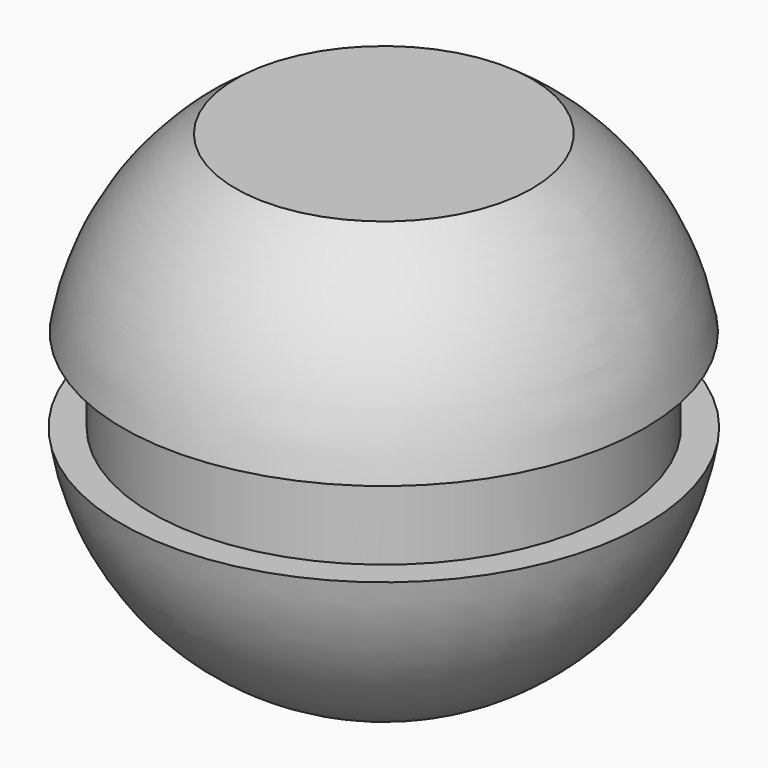
from build123d import *


with BuildPart() as f1:
    # F0 (on Front) → F1 (revolve)
    with BuildSketch(Plane.XZ):
        with BuildLine():
            Line((0, 33.157896), (0, -40.026548))
            ThreePointArc((0, -40.026548), (26.125899, -30.324279), (39.58618, -5.921053))
            Line((39.58618, -5.921053), (35.08224, -5.921053))
            Line((35.08224, -5.921053), (35.08224, 6.809211))
            Line((35.08224, 6.809211), (39.443113, 6.809211))
            ThreePointArc((39.443113, 6.809211), (33.620525, 21.720608), (22.420491, 33.157896))
            Line((22.420491, 33.157896), (0, 33.157896))
        make_face()
        with BuildLine():
            Line((0, 33.157896), (0, -40.026548))
            ThreePointArc((0, -40.026548), (26.125899, -30.324279), (39.58618, -5.921053))
            Line((39.58618, -5.921053), (35.08224, -5.921053))
            Line((35.08224, -5.921053), (35.08224, 6.809211))
            Line((35.08224, 6.809211), (39.443113, 6.809211))
            ThreePointArc((39.443113, 6.809211), (33.620525, 21.720608), (22.420491, 33.157896))
            Line((22.420491, 33.157896), (0, 33.157896))
        make_face()
    revolve(axis=Axis((0, 0, 2.692308), (0, 0, -1)))

    # F2 (on Front) → F3 (revolve, cut)
    with BuildSketch(Plane.XZ):
        with BuildLine():
            Line((-47.490733, 55.363884), (-47.490733, 12.728224))
            ThreePointArc((-47.490733, 12.728224), (-26.198605, 34.046054), (-47.490733, 55.363884))
        make_face()
    revolve(axis=Axis((-47.490733, 0, 34.046054), (0, 0, -1)), mode=Mode.SUBTRACT)


solid = f1.part
